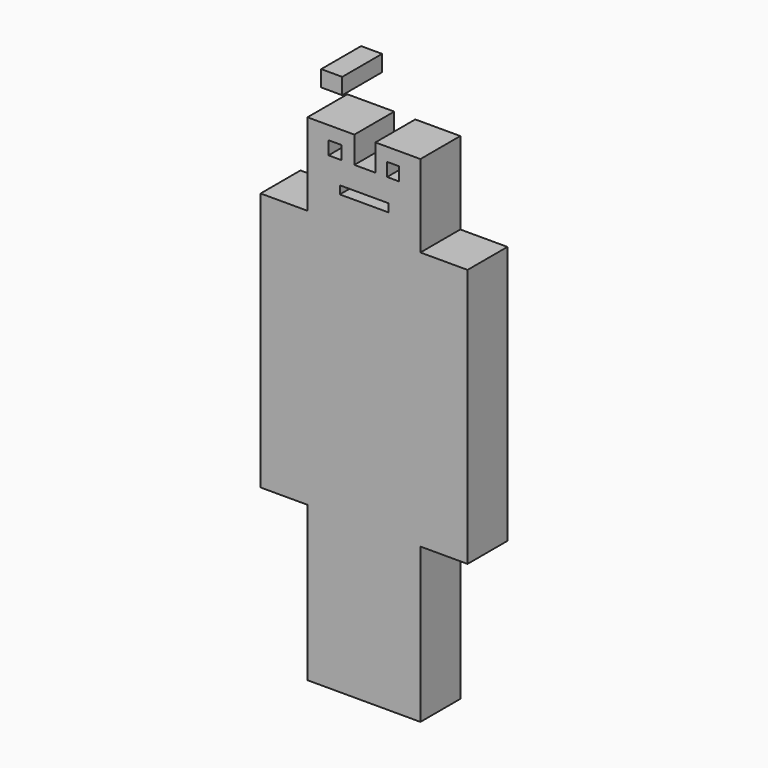
from build123d import *

# Parameters (mm, degrees)
F0_W     = 12.3567571864
F0_H     = 2.0594596863
F0_W_2   = 11.9448648766
F0_H_2   = 14.0445673443
F0_W_3   = 12.0067576718
F0_H_3   = 51.8983807415
F0_W_4   = 3.2951353351
F0_H_4   = 3.3991783857
F0_W_5   = 14.4162168726
F0_H_5   = 9.4735100865
F0_W_6   = 14.3543240774
F1_DEPTH = 12.7
F0_W_7   = 5.3545944393
F0_H_6   = 4.1189193726


with BuildPart() as f1:
    # F0 (on Front) → F1 (new body)
    with BuildSketch(Plane.XZ):
        Polygon((-14.4162168726, 56.4313307405), (-14.4162168726, 35.462946964), (14.3543240774, 35.462946964), (14.3543240774, 56.4188435674), (2.8832429089, 56.4188435674), (2.8832429089, 53.0321523547), (4.3763514841, 53.0321523547), (5.251487717, 53.0321523547), (5.8694600593, 53.0321523547), (8.8556772098, 53.0321523547), (8.8556772098, 49.632973969), (5.8694600593, 49.632973969), (2.8832429089, 49.632973969), (-2.4713517632, 49.632973969), (-5.7664870983, 49.632973969), (-9.0616224334, 49.632973969), (-9.0616224334, 53.0321523547), (-5.7664870983, 53.0321523547), (-2.4713517632, 53.0321523547), (-2.4713517632, 56.4313307405), align=None)
        with Locations((0, 42.8367555141)):
            Rectangle(F0_W, F0_H, mode=Mode.SUBTRACT)
        with Locations((-20.3886493109, 28.4406632919)):
            Rectangle(F0_W_2, F0_H_2)
        Polygon((14.3543240774, 35.462946964), (-14.4162168726, 35.462946964), (-14.4162168726, 21.4183796197), (-14.4162168726, -30.4800011218), (0, -30.4800011218), (14.3543240774, -30.4800011218), (14.3543240774, 21.4183796197), align=None)
        with Locations((20.3577029133, 28.4406632919)):
            Rectangle(F0_W_3, F0_H_2)
        with Locations((-20.3886493109, -4.530810751)):
            Rectangle(F0_W_2, F0_H_3)
        with Locations((20.3577029133, -4.530810751)):
            Rectangle(F0_W_3, F0_H_3)
        Polygon((0, -30.4800011218), (-14.4162168726, -30.4800011218), (-14.4162168726, -60.3421628475), (0, -60.3421628475), (0, -45.7200035453), (0, -39.3356755376), align=None)
        Polygon((14.3543240774, -60.3421628475), (14.3543240774, -30.4800011218), (0, -30.4800011218), (0, -39.3356755376), (0, -45.7200035453), (0, -60.3421628475), align=None)
        with Locations((-4.1189194308, 51.3325631618)):
            Rectangle(F0_W_4, F0_H_4)
        with Locations((-7.2081084363, -65.0789178908)):
            Rectangle(F0_W_5, F0_H_5)
        Polygon((4.3763514841, 53.0321523547), (2.8832429089, 53.0321523547), (2.8832429089, 49.632973969), (5.8694600593, 49.632973969), (5.8694600593, 53.0321523547), (5.251487717, 53.0321523547), align=None)
        with Locations((7.1771620387, -65.0789178908)):
            Rectangle(F0_W_6, F0_H_5)
    extrude(amount=F1_DEPTH)


with BuildPart() as f1b:
    # F0 (on Front) → F1, piece 2 (new body)
    with BuildSketch(Plane.XZ):
        with Locations((-8.2378387451, 66.3145929575)):
            Rectangle(F0_W_7, F0_H_6)
    extrude(amount=F1_DEPTH)


solid = Compound([f1.part, f1b.part])
